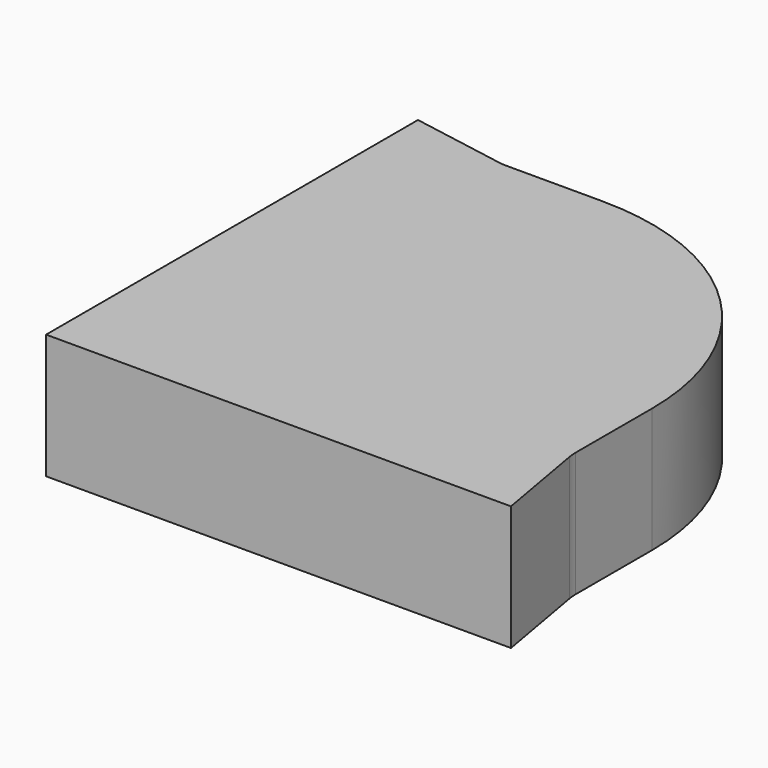
from build123d import *

# Parameters (mm, degrees)
F1_DEPTH = 25


with BuildPart() as f1:
    # F0 (on Top) → F1 (new body)
    with BuildSketch(Plane.XY):
        with BuildLine():
            Line((50, -19.125113), (50, 0))
            ThreePointArc((50, 0), (46.193977, 19.134172), (35.355339, 35.355339))
            ThreePointArc((35.355339, 35.355339), (19.134172, 46.193977), (0, 50))
            Line((0, 50), (-19.125113, 50))
            ThreePointArc((-19.125113, 50), (-19.996671, 50.038053), (-20.861595, 50.151922))
            Line((-20.861595, 50.151922), (-39.696155, 53.472964))
            Line((-39.696155, 53.472964), (-39.696155, -39.696155))
            Line((-39.696155, -39.696155), (53.472964, -39.696155))
            Line((53.472964, -39.696155), (50.151922, -20.861595))
            ThreePointArc((50.151922, -20.861595), (50.038053, -19.996671), (50, -19.125113))
        make_face()
    extrude(amount=F1_DEPTH)


solid = f1.part
